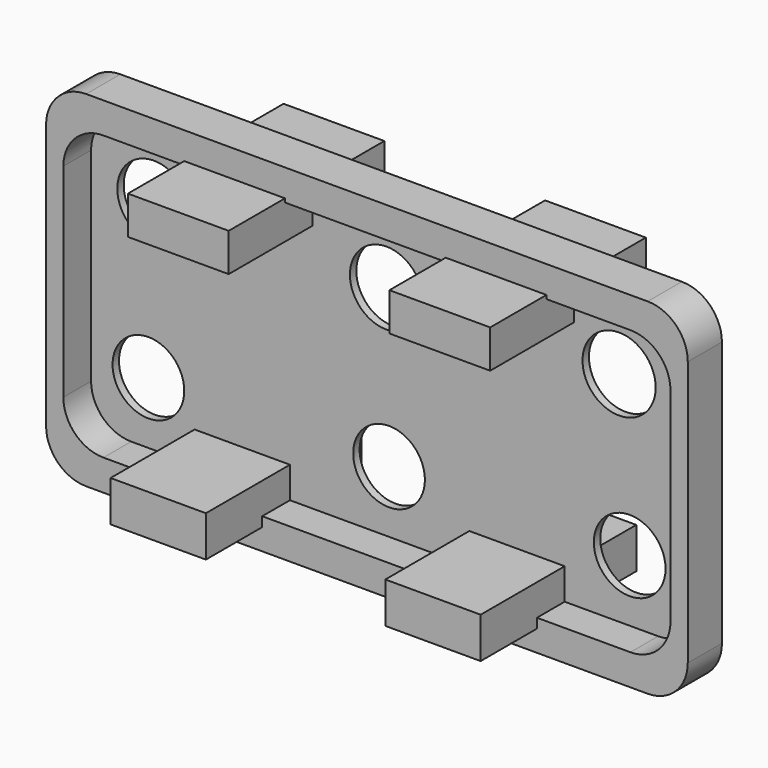
from build123d import *

# Parameters (mm, degrees)
F1_DEPTH = 22.86
F3_DEPTH = 21.59
F4_R     = 5.7920726269
F4_R_2   = 5.6767618258
F5_DEPTH = 25.4
F6_W     = 15.9551920369
F6_H     = 6.0370992869
F6_W_2   = 15.0927454233
F6_H_2   = 6.4683184028
F7_DEPTH = 12.9
F8_DEPTH = 16.1
F9_DEPTH = 30.8


with BuildPart() as f1:
    # F0 (on Front) → F1 (new body)
    with BuildSketch(Plane.XZ):
        with BuildLine():
            ThreePointArc((-50.7977157831, -20.9915483534), (-48.9378438437, -25.481676414), (-44.4477157831, -27.3415483534))
            Line((-44.4477157831, -27.3415483534), (44.4477157831, -27.3415483534))
            ThreePointArc((44.4477157831, -27.3415483534), (48.9378438437, -25.481676414), (50.7977157831, -20.9915483534))
            Line((50.7977157831, -20.9915483534), (50.7977157831, 20.9915483534))
            ThreePointArc((50.7977157831, 20.9915483534), (48.9378438437, 25.481676414), (44.4477157831, 27.3415483534))
            Line((44.4477157831, 27.3415483534), (-44.4477157831, 27.3415483534))
            ThreePointArc((-44.4477157831, 27.3415483534), (-48.9378438437, 25.481676414), (-50.7977157831, 20.9915483534))
            Line((-50.7977157831, 20.9915483534), (-50.7977157831, -20.9915483534))
        make_face()
        with BuildLine():
            Line((37.8281841218, -17.8439579904), (-37.8281841218, -17.8439579904))
            ThreePointArc((-37.8281841218, -17.8439579904), (-42.3183121824, -15.9840860509), (-44.1781841218, -11.4939579904))
            Line((-44.1781841218, -11.4939579904), (-44.1781841218, 11.4939579904))
            ThreePointArc((-44.1781841218, 11.4939579904), (-42.3183121824, 15.9840860509), (-37.8281841218, 17.8439579904))
            Line((-37.8281841218, 17.8439579904), (37.8281841218, 17.8439579904))
            ThreePointArc((37.8281841218, 17.8439579904), (42.3183121824, 15.9840860509), (44.1781841218, 11.4939579904))
            Line((44.1781841218, 11.4939579904), (44.1781841218, -11.4939579904))
            ThreePointArc((44.1781841218, -11.4939579904), (42.3183121824, -15.9840860509), (37.8281841218, -17.8439579904))
        make_face(mode=Mode.SUBTRACT)
        with BuildLine():
            ThreePointArc((-44.1781841218, -11.4939579904), (-42.3183121824, -15.9840860509), (-37.8281841218, -17.8439579904))
            Line((-37.8281841218, -17.8439579904), (37.8281841218, -17.8439579904))
            ThreePointArc((37.8281841218, -17.8439579904), (42.3183121824, -15.9840860509), (44.1781841218, -11.4939579904))
            Line((44.1781841218, -11.4939579904), (44.1781841218, 11.4939579904))
            ThreePointArc((44.1781841218, 11.4939579904), (42.3183121824, 15.9840860509), (37.8281841218, 17.8439579904))
            Line((37.8281841218, 17.8439579904), (-37.8281841218, 17.8439579904))
            ThreePointArc((-37.8281841218, 17.8439579904), (-42.3183121824, 15.9840860509), (-44.1781841218, 11.4939579904))
            Line((-44.1781841218, 11.4939579904), (-44.1781841218, -11.4939579904))
        make_face()
    extrude(amount=-F1_DEPTH)

    # F2 (on Front) → F3 (cut)
    with BuildSketch(Plane.XZ):
        with BuildLine():
            Line((-41.7135613203, -22.448848933), (41.7135613203, -22.448848933))
            ThreePointArc((41.7135613203, -22.448848933), (46.2036893808, -20.5889769935), (48.0635613203, -16.098848933))
            Line((48.0635613203, -16.098848933), (48.0635613203, 16.098848933))
            ThreePointArc((48.0635613203, 16.098848933), (46.2036893808, 20.5889769935), (41.7135613203, 22.448848933))
            Line((41.7135613203, 22.448848933), (-41.7135613203, 22.448848933))
            ThreePointArc((-41.7135613203, 22.448848933), (-46.2036893808, 20.5889769935), (-48.0635613203, 16.098848933))
            Line((-48.0635613203, 16.098848933), (-48.0635613203, -16.098848933))
            ThreePointArc((-48.0635613203, -16.098848933), (-46.2036893808, -20.5889769935), (-41.7135613203, -22.448848933))
        make_face()
    extrude(amount=-F3_DEPTH, mode=Mode.SUBTRACT)

    # F4 (on face) → F5 (cut)
    with BuildSketch(Plane.XZ.offset(-21.59)):
        with Locations((-38.1261706352, 12.0878387243)):
            Circle(F4_R)
        with Locations((-1.2961706352, 12.0878387243)):
            Circle(F4_R)
        with Locations((35.5338293648, 12.0878387243)):
            Circle(F4_R)
        with Locations((-38.9896593988, -12.66345568)):
            Circle(F4_R_2)
        with Locations((-0.8896593988, -12.66345568)):
            Circle(F4_R_2)
        with Locations((37.2103406012, -12.66345568)):
            Circle(F4_R_2)
    extrude(amount=-F5_DEPTH, mode=Mode.SUBTRACT)

    # F6 (on face) → F7 (join)
    with BuildSketch(Plane(origin=(0, 22.86, 0), x_dir=(-1, 0, 0), z_dir=(0, 1, 0))):
        with Locations((-20.4493920319, 20.0157957152)):
            Rectangle(F6_W, F6_H)
        with Locations((20.9506079681, 20.0157957152)):
            Rectangle(F6_W, F6_H)
        with Locations((-19.3713400513, -20.7346286625)):
            Rectangle(F6_W_2, F6_H_2)
        with Locations((24.1286599487, -20.7346286625)):
            Rectangle(F6_W_2, F6_H_2)
    extrude(amount=F7_DEPTH)

    # F8 (cut): a face of the model
    f8_faces = [f1.faces().sort_by_distance(p)[0] for p in [
        (-48.1220046199, 0, 24.6658371902),
    ]]
    extrude(f8_faces, amount=-F8_DEPTH, mode=Mode.SUBTRACT)

    # F9 (add): faces of the model
    f9_faces = [f1.faces().sort_by_distance(p)[0] for p in [
        (20.4493920319, 35.76, 20.0157957152),
        (-20.9506079681, 35.76, 20.0157957152),
        (-24.1286599487, 35.76, -20.7346286625),
        (19.3713400513, 35.76, -20.7346286625),
    ]]
    extrude(f9_faces, amount=-F9_DEPTH)


solid = f1.part
